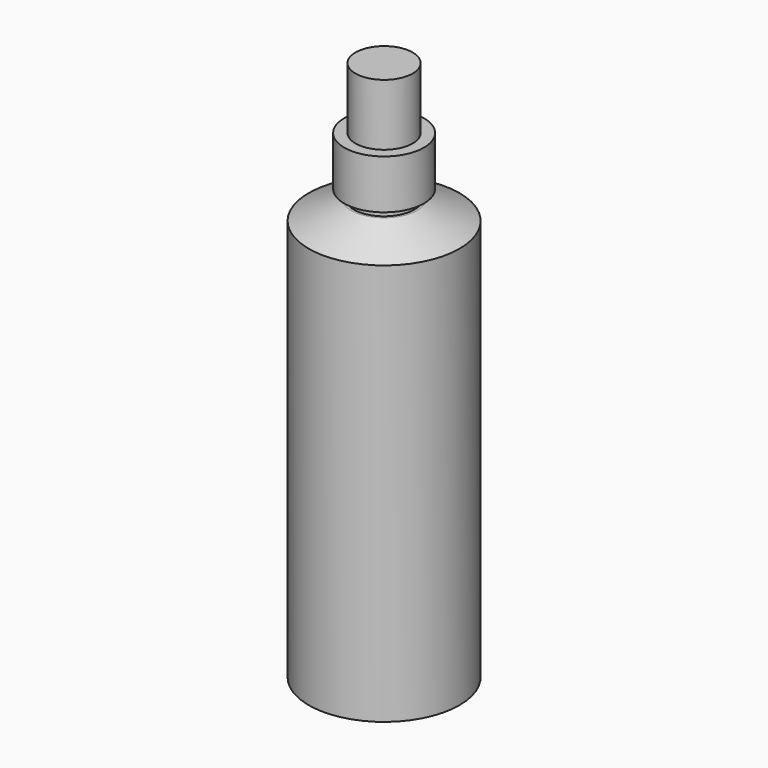
from build123d import *

# Parameters (mm, degrees)
F0_R     = 31.115
F1_DEPTH = 174
F2_SIZE2 = 8.1603840177
F2_SIZE  = 17.5
F3_R     = 12.5
F4_DEPTH = 3.5
F5_R     = 16.45
F6_DEPTH = 20.3
F7_R     = 11.8
F8_DEPTH = 25.4


with BuildPart() as f1:
    # F0 (on Top) → F1 (new body)
    with BuildSketch(Plane.XY):
        Circle(F0_R)
    extrude(amount=F1_DEPTH)

    # F2
    f2_edges = [f1.edges().sort_by_distance(p)[0] for p in [
        (-31.115, 0, 174),
    ]]
    f2_side = f1.faces().sort_by_distance((0, 0, 174))[0]
    chamfer(f2_edges, length=F2_SIZE, length2=F2_SIZE2, reference=f2_side)

    # F3 (on face) → F4 (join)
    with BuildSketch(Plane.XY.offset(174)):
        Circle(F3_R)
    extrude(amount=F4_DEPTH)

    # F5 (on face) → F6 (join)
    with BuildSketch(Plane.XY.offset(177.5)):
        Circle(F5_R)
    extrude(amount=F6_DEPTH)

    # F7 (on face) → F8 (join)
    with BuildSketch(Plane.XY.offset(197.8)):
        Circle(F7_R)
    extrude(amount=F8_DEPTH)


solid = f1.part
